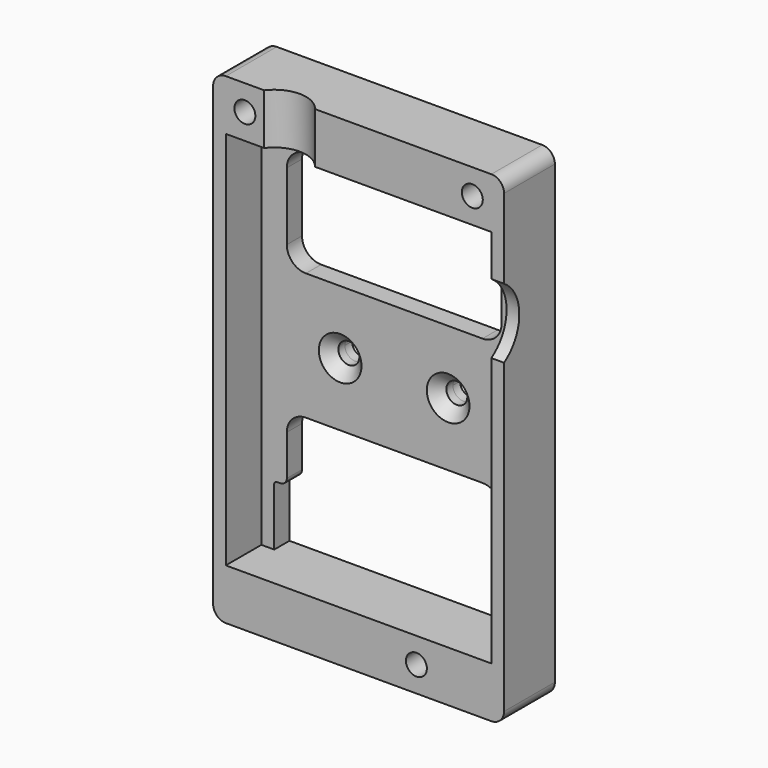
from build123d import *

# Parameters (mm, degrees)
F1_DEPTH        = 10
F0_R            = 2.9
F2_DEPTH        = 3
F3_R            = 6.5
F4_DEPTH        = 4
F5_R            = 5
F6_DEPTH        = 12
F7_DEPTH        = 2
F8_D            = 3.3
F8_DEPTH        = 13.8
F8_START        = 2
F8_TIP          = 0.9914200214
F9_DEPTH        = 1.4
F10_D           = 3.3
F10_DEPTH       = 8
F10_TIP         = 0.9914200214
F12_D           = 3.3
F12_DEPTH       = 8
F12_CSINK_D     = 6.72
F12_CSINK_ANGLE = 90
F12_TIP         = 0.9914200214


with BuildPart() as f1:
    # F0 (on Front) → F1 (new body)
    with BuildSketch(Plane.XZ):
        with BuildLine():
            Line((20.9, 37.9), (17.9, 37.9))
            Line((17.9, 37.9), (-17.9, 37.9))
            Line((-17.9, 37.9), (-20.9, 37.9))
            ThreePointArc((-20.9, 37.9), (-22.3142135624, 37.3142135624), (-22.9, 35.9))
            Line((-22.9, 35.9), (-22.9, 32.9))
            Line((-22.9, 32.9), (-22.9, -35.9))
            ThreePointArc((-22.9, -35.9), (-22.3142135624, -37.3142135624), (-20.9, -37.9))
            Line((-20.9, -37.9), (20.9, -37.9))
            ThreePointArc((20.9, -37.9), (22.3142135624, -37.3142135624), (22.9, -35.9))
            Line((22.9, -35.9), (22.9, 32.9))
            Line((22.9, 32.9), (22.9, 35.9))
            ThreePointArc((22.9, 35.9), (22.3142135624, 37.3142135624), (20.9, 37.9))
        make_face()
        Polygon((7.4256842194, -31), (10.7743157806, -31), (12.4486315613, -33.9), (10.7743157806, -36.8), (7.4256842194, -36.8), (5.7513684387, -33.9), align=None, mode=Mode.SUBTRACT)
        Polygon((-16.2256842194, 36.8), (-14.5513684387, 33.9), (-16.2256842194, 31), (-19.5743157806, 31), (-21.2486315613, 33.9), (-19.5743157806, 36.8), align=None, mode=Mode.SUBTRACT)
        Polygon((20.9, 29.9), (20.9, -29.9), (18.3, -29.9), (-18.8811943151, -29.9), (-20.9, -29.9), (-20.9, 29.9), align=None, mode=Mode.SUBTRACT)
        Polygon((21.2486315613, 33.9), (19.5743157806, 31), (16.2256842194, 31), (14.5513684387, 33.9), (16.2256842194, 36.8), (19.5743157806, 36.8), align=None, mode=Mode.SUBTRACT)
        Polygon((-16.2256842194, 31), (-14.5513684387, 33.9), (-16.2256842194, 36.8), (-19.5743157806, 36.8), (-21.2486315613, 33.9), (-19.5743157806, 31), align=None)
        Polygon((16.2256842194, 31), (19.5743157806, 31), (21.2486315613, 33.9), (19.5743157806, 36.8), (16.2256842194, 36.8), (14.5513684387, 33.9), align=None)
        Polygon((12.4486315613, -33.9), (10.7743157806, -31), (7.4256842194, -31), (5.7513684387, -33.9), (7.4256842194, -36.8), (10.7743157806, -36.8), align=None)
    extrude(amount=F1_DEPTH)

    # F0 (on Front) → F2 (join)
    with BuildSketch(Plane.XZ):
        with BuildLine():
            Line((18.3, -29.9), (20.9, -29.9))
            Line((20.9, -29.9), (20.9, 29.9))
            Line((20.9, 29.9), (-20.9, 29.9))
            Line((-20.9, 29.9), (-20.9, -29.9))
            Line((-20.9, -29.9), (-18.8811943151, -29.9))
            Line((-18.8811943151, -29.9), (-18.8811943151, -20.7887917079))
            ThreePointArc((-18.8811943151, -20.7887917079), (-18.7640370276, -20.5059489954), (-18.4811943151, -20.3887917079))
            Line((-18.4811943151, -20.3887917079), (-17.9, -20.3887917079))
            ThreePointArc((-17.9, -20.3887917079), (-17.1928932188, -20.0958984891), (-16.9, -19.3887917079))
            Line((-16.9, -19.3887917079), (-16.9, -13))
            ThreePointArc((-16.9, -13), (-16.0213203436, -10.8786796564), (-13.9, -10))
            Line((-13.9, -10), (13.9, -10))
            ThreePointArc((13.9, -10), (16.0213203436, -10.8786796564), (16.9, -13))
            Line((16.9, -13), (16.9, -19.3887917079))
            ThreePointArc((16.9, -19.3887917079), (17.1928932188, -20.0958984891), (17.9, -20.3887917079))
            ThreePointArc((17.9, -20.3887917079), (18.1828427125, -20.5059489954), (18.3, -20.7887917079))
            Line((18.3, -20.7887917079), (18.3, -29.9))
        make_face()
        with Locations((-8.5, 0)):
            Circle(F0_R, mode=Mode.SUBTRACT)
        with Locations((8.5, 0)):
            Circle(F0_R, mode=Mode.SUBTRACT)
        with BuildLine():
            ThreePointArc((-16.9, 23.6416198403), (-16.0213203436, 25.7629401838), (-13.9, 26.6416198403))
            Line((-13.9, 26.6416198403), (13.9, 26.6416198403))
            ThreePointArc((13.9, 26.6416198403), (16.0213203436, 25.7629401838), (16.9, 23.6416198403))
            Line((16.9, 23.6416198403), (16.9, 13))
            ThreePointArc((16.9, 13), (16.0213203436, 10.8786796564), (13.9, 10))
            Line((13.9, 10), (-13.9, 10))
            ThreePointArc((-13.9, 10), (-16.0213203436, 10.8786796564), (-16.9, 13))
            Line((-16.9, 13), (-16.9, 23.6416198403))
        make_face(mode=Mode.SUBTRACT)
        with Locations((-8.5, 0)):
            Circle(F0_R)
        with Locations((8.5, 0)):
            Circle(F0_R)
    extrude(amount=F2_DEPTH)

    # F3 (on face) → F4 (cut)
    with BuildSketch(Plane.YZ.offset(22.9)):
        with Locations((-13.5, 17.9)):
            Circle(F3_R)
    extrude(amount=-F4_DEPTH, mode=Mode.SUBTRACT)

    # F5 (on face) → F6 (cut)
    with BuildSketch(Plane.XY.offset(37.9)):
        with Locations((-10.8651584014, -13)):
            Circle(F5_R)
    extrude(amount=-F6_DEPTH, mode=Mode.SUBTRACT)

    # F0 (on Front) → F7 (cut)
    with BuildSketch(Plane.XZ):
        Polygon((-16.2256842194, 31), (-14.5513684387, 33.9), (-16.2256842194, 36.8), (-19.5743157806, 36.8), (-21.2486315613, 33.9), (-19.5743157806, 31), align=None)
        Polygon((16.2256842194, 31), (19.5743157806, 31), (21.2486315613, 33.9), (19.5743157806, 36.8), (16.2256842194, 36.8), (14.5513684387, 33.9), align=None)
        Polygon((12.4486315613, -33.9), (10.7743157806, -31), (7.4256842194, -31), (5.7513684387, -33.9), (7.4256842194, -36.8), (10.7743157806, -36.8), align=None)
    extrude(amount=F7_DEPTH, mode=Mode.SUBTRACT)

    # F8
    # its depths count from where the whole tool has entered the part; down to there all is cleared
    with Locations(Plane(origin=(0, 0, 0), x_dir=(1, 0, 0), z_dir=(0, 1, 0)).offset(-F8_START)):
        with Locations((-17.9, -33.9), (17.9, -33.9), (9.1, 33.9)):
            Hole(F8_D / 2, depth=F8_DEPTH)
            with Locations((0, 0, -(F8_DEPTH + F8_TIP / 2))):  # 118° drill point
                Cone(0, F8_D / 2, F8_TIP, mode=Mode.SUBTRACT)

    # F0 (on Front) → F9 (join)
    with BuildSketch(Plane.XZ):
        with Locations((8.5, 0)):
            Circle(F0_R)
        with Locations((-8.5, 0)):
            Circle(F0_R)
    extrude(amount=-F9_DEPTH)

    # F10 (one way)
    with BuildSketch(Plane.XZ):
        with Locations((-8.5, 0), (8.5, 0)):
            Circle(F10_D / 2)
    extrude(amount=-F10_DEPTH, mode=Mode.SUBTRACT)
    with Locations(Plane.XZ):
        with Locations((-8.5, 0), (8.5, 0)):
            with Locations((0, 0, -(F10_DEPTH + F10_TIP / 2))):  # 118° drill point
                Cone(0, F10_D / 2, F10_TIP, mode=Mode.SUBTRACT)

    # F12
    with Locations(Plane.XZ.offset(3)):
        with Locations((-8.5, 0), (8.5, 0)):
            CounterSinkHole(F12_D / 2, F12_CSINK_D / 2, depth=F12_DEPTH, counter_sink_angle=F12_CSINK_ANGLE)
            with Locations((0, 0, -(F12_DEPTH + F12_TIP / 2))):  # 118° drill point
                Cone(0, F12_D / 2, F12_TIP, mode=Mode.SUBTRACT)


solid = f1.part
